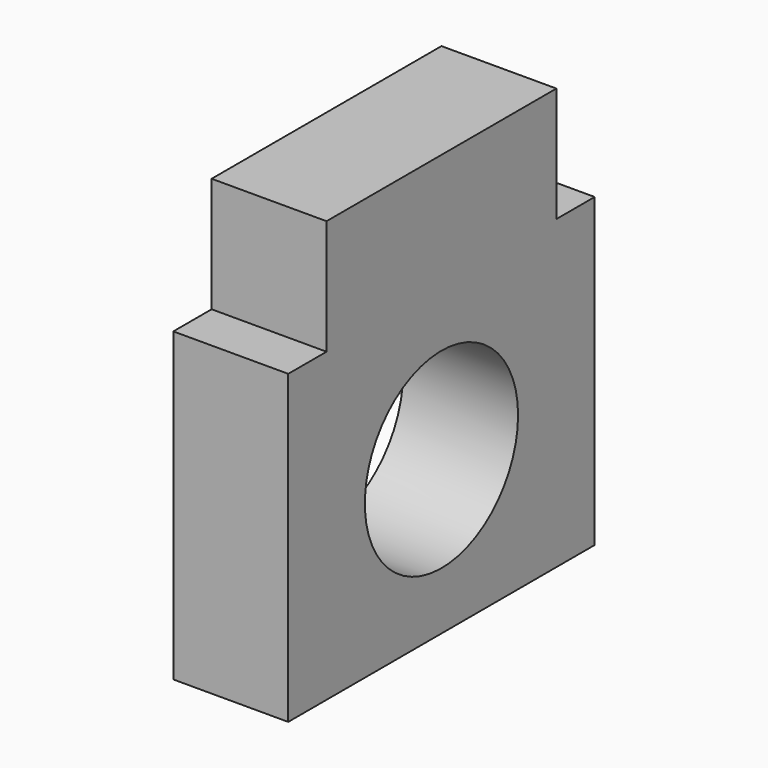
from build123d import *

# Parameters (mm, degrees)
F0_R     = 2.5
F1_DEPTH = 3


with BuildPart() as f1:
    # F0 (on Right) → F1 (new body)
    with BuildSketch(Plane.YZ):
        Polygon((-5, 4), (-5, -4), (5, -4), (5, 4), (3.75, 4), (3.75, 7), (-3.75, 7), (-3.75, 4), align=None)
        Circle(F0_R, mode=Mode.SUBTRACT)
    extrude(amount=F1_DEPTH)


solid = f1.part
